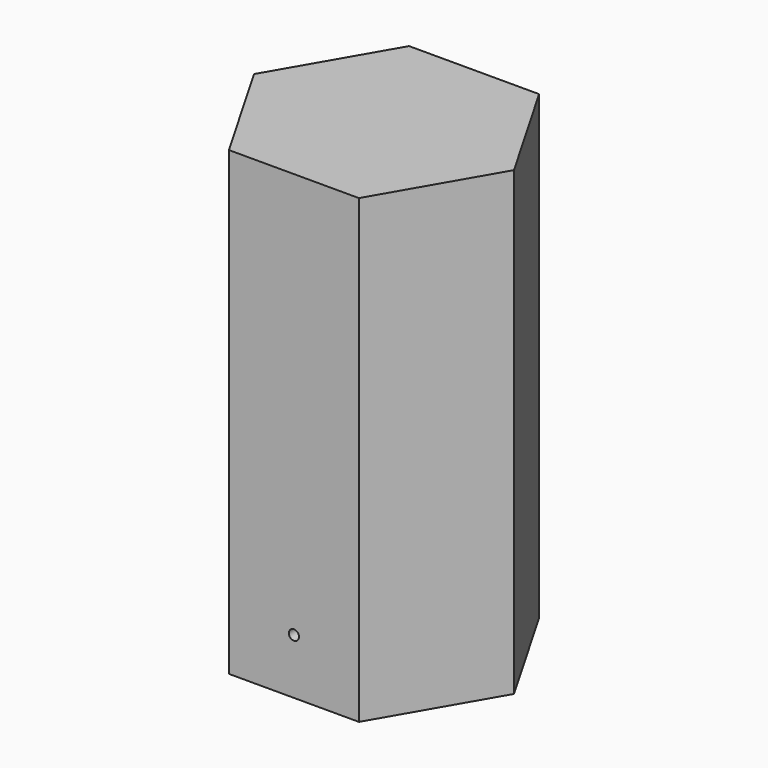
from build123d import *

# Parameters (mm, degrees)
F1_DEPTH = 250
F3_D     = 5.5
F3_DEPTH = 61.0402304845
F4_D     = 5.5
F4_DEPTH = 61.0402304845


with BuildPart() as f1:
    # F0 (on Top) → F1 (new body)
    with BuildSketch(Plane.XY):
        Polygon((35.2410161514, -61.0392304845), (70.4820323028, 0), (35.2410161514, 61.0392304845), (-35.2410161514, 61.0392304845), (-70.4820323028, 0), (-35.2410161514, -61.0392304845), align=None)
    extrude(amount=F1_DEPTH)

    # F3 (through all, one way)
    with BuildSketch(Plane.XZ):
        with Locations((0, 140), (0, 83)):
            Circle(F3_D / 2)
    extrude(amount=-F3_DEPTH, mode=Mode.SUBTRACT)

    # F4 (through all, one way)
    with BuildSketch(Plane(origin=(0, 0, 0), x_dir=(1, 0, 0), z_dir=(0, 1, 0))):
        with Locations((0, -30)):
            Circle(F4_D / 2)
    extrude(amount=-F4_DEPTH, mode=Mode.SUBTRACT)


solid = f1.part
